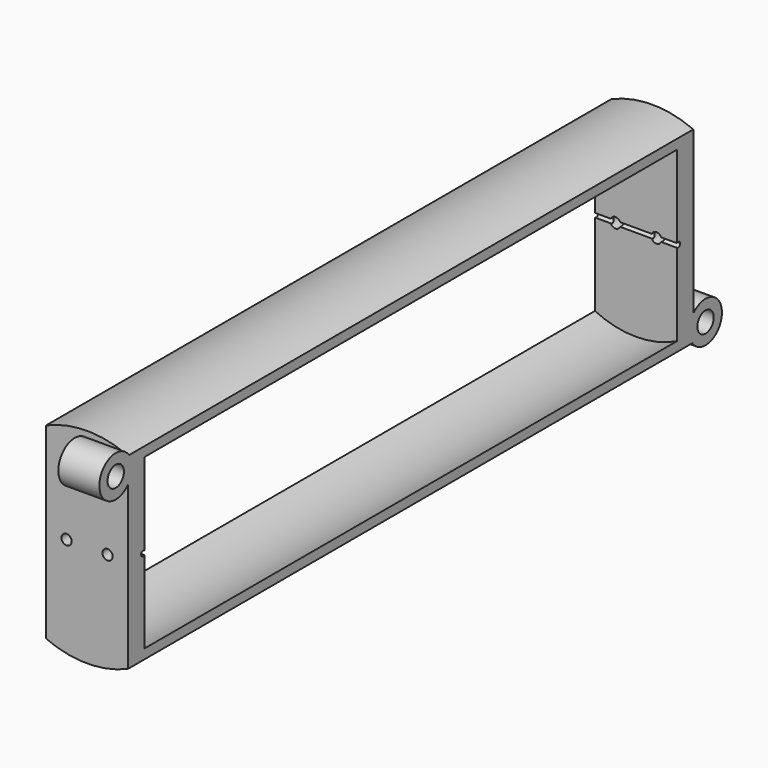
from build123d import *

# Parameters (mm, degrees)
F0_R      = 10
F0_R_2    = 9.15
F1_DEPTH  = 32.5
F3_R      = 10
F4_DEPTH  = 2
F6_R      = 10
F7_DEPTH  = 2
F9_W      = 20.5420348992
F9_H      = 75
F9_W_2    = 19.674062295
F10_DEPTH = 25
F12_DEPTH = 25
F13_R     = 0.5
F14_DEPTH = 80
F15_R     = 2
F15_R_2   = 1
F16_DEPTH = 4
F17_R     = 2
F17_R_2   = 1
F18_DEPTH = 4


with BuildPart() as f1:
    # F0 (on Front) → F1 (new body, symmetric)
    with BuildSketch(Plane.XZ):
        Circle(F0_R)
        Circle(F0_R_2, mode=Mode.SUBTRACT)
    extrude(amount=F1_DEPTH, both=True)

    # F3 (on face) → F4 (join)
    with BuildSketch(Plane.XZ.offset(32.5)):
        Circle(F3_R)
    extrude(amount=F4_DEPTH)

    # F6 (on face) → F7 (join)
    with BuildSketch(Plane(origin=(0, 32.5, 0), x_dir=(-1, 0, 0), z_dir=(0, 1, 0))):
        Circle(F6_R)
    extrude(amount=F7_DEPTH)

    # F9 (on offset) → F10 (cut)
    with BuildSketch(Plane.XY.offset(11)):
        with Locations((-14.2710174496, 0)):
            Rectangle(F9_W, F9_H)
        with Locations((13.8370311475, 0)):
            Rectangle(F9_W_2, F9_H)
    extrude(amount=-F10_DEPTH, mode=Mode.SUBTRACT)

    # F11 (on face) → F12 (cut)
    with BuildSketch(Plane.YZ.offset(4)):
        with BuildLine():
            Line((-32.5, -0.2), (-32.5, 0.2))
            ThreePointArc((-32.5, 0.2), (-32.9, 0), (-32.5, -0.2))
        make_face()
        with BuildLine():
            ThreePointArc((32.9, 0), (32.7618033989, 0.2236067977), (32.5, 0.2))
            Line((32.5, 0.2), (32.5, -0.2))
            ThreePointArc((32.5, -0.2), (32.7618033989, -0.2236067977), (32.9, 0))
        make_face()
    extrude(amount=-F12_DEPTH, mode=Mode.SUBTRACT)

    # F13 (on face) → F14 (cut)
    with BuildSketch(Plane(origin=(0, 34.5, 0), x_dir=(-1, 0, 0), z_dir=(0, 1, 0))):
        with Locations((-2, 0)):
            Circle(F13_R)
        with Locations((2, 0)):
            Circle(F13_R)
    extrude(amount=-F14_DEPTH, mode=Mode.SUBTRACT)

    # F15 (on Right) → F16 (join)
    with BuildSketch(Plane.YZ):
        with Locations((36, -8)):
            Circle(F15_R)
        with Locations((36, -8)):
            Circle(F15_R_2, mode=Mode.SUBTRACT)
    extrude(amount=F16_DEPTH)

    # F17 (on Right) → F18 (join)
    with BuildSketch(Plane.YZ):
        with Locations((-36, 8)):
            Circle(F17_R)
        with Locations((-36, 8)):
            Circle(F17_R_2, mode=Mode.SUBTRACT)
    extrude(amount=F18_DEPTH)


solid = f1.part
